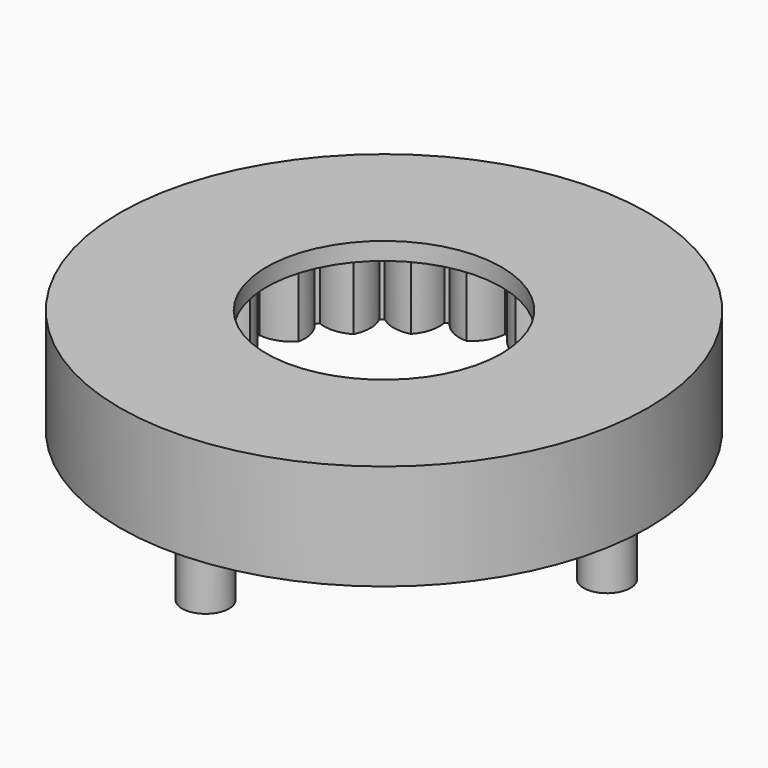
from build123d import *

# Parameters (mm, degrees)
F0_R     = 22.5
F1_DEPTH = 7.5
F2_R     = 2
F3_DEPTH = 5
F4_DEPTH = 5
F5_R     = 22.5
F5_R_2   = 10
F6_DEPTH = 1.5


with BuildPart() as f1:
    # F0 (on Top) → F1 (new body)
    with BuildSketch(Plane.XY):
        Circle(F0_R)
        with BuildLine():
            ThreePointArc((15.973986, 0.912023), (15.993495, 0.456197), (16, 0))
            ThreePointArc((16, 0), (15.925079, -1.546568), (15.701016, -3.078652))
            ThreePointArc((15.701016, -3.078652), (15.665345, -3.255296), (15.627688, -3.431527))
            ThreePointArc((15.627688, -3.431527), (15.076175, -5.358074), (14.288169, -7.200571))
            ThreePointArc((14.288169, -7.200571), (14.206163, -7.361041), (14.122356, -7.520577))
            ThreePointArc((14.122356, -7.520577), (13.071518, -9.226885), (11.815634, -10.788456))
            ThreePointArc((11.815634, -10.788456), (11.693375, -10.92085), (11.569633, -11.051859))
            ThreePointArc((11.569633, -11.051859), (10.097407, -12.411381), (8.466788, -13.576211))
            ThreePointArc((8.466788, -13.576211), (8.313343, -13.67071), (8.158844, -13.763476))
            ThreePointArc((8.158844, -13.763476), (6.374417, -14.675381), (4.489999, -15.35708))
            ThreePointArc((4.489999, -15.35708), (4.316748, -15.406677), (4.14295, -15.454319))
            ThreePointArc((4.14295, -15.454319), (2.178666, -15.850975), (0.180207, -15.998985))
            ThreePointArc((0.180207, -15.998985), (0, -16), (-0.180207, -15.998985))
            ThreePointArc((-0.180207, -15.998985), (-2.178666, -15.850975), (-4.14295, -15.454319))
            ThreePointArc((-4.14295, -15.454319), (-4.316748, -15.406677), (-4.489999, -15.35708))
            ThreePointArc((-4.489999, -15.35708), (-6.374417, -14.675381), (-8.158844, -13.763476))
            ThreePointArc((-8.158844, -13.763476), (-8.313343, -13.67071), (-8.466788, -13.576211))
            ThreePointArc((-8.466788, -13.576211), (-10.097407, -12.411381), (-11.569633, -11.051859))
            ThreePointArc((-11.569633, -11.051859), (-11.693375, -10.92085), (-11.815634, -10.788456))
            ThreePointArc((-11.815634, -10.788456), (-13.071518, -9.226885), (-14.122356, -7.520577))
            ThreePointArc((-14.122356, -7.520577), (-14.206163, -7.361041), (-14.288169, -7.200571))
            ThreePointArc((-14.288169, -7.200571), (-15.076175, -5.358074), (-15.627688, -3.431527))
            ThreePointArc((-15.627688, -3.431527), (-15.665345, -3.255296), (-15.701016, -3.078652))
            ThreePointArc((-15.701016, -3.078652), (-15.9627, -1.091879), (-15.973986, 0.912023))
            ThreePointArc((-15.973986, 0.912023), (-15.9627, 1.091879), (-15.94939, 1.271596))
            ThreePointArc((-15.94939, 1.271596), (-15.665345, 3.255296), (-15.135566, 5.187932))
            ThreePointArc((-15.135566, 5.187932), (-15.076175, 5.358074), (-15.014871, 5.527536))
            ThreePointArc((-15.014871, 5.527536), (-14.206163, 7.361041), (-13.174611, 9.079076))
            ThreePointArc((-13.174611, 9.079076), (-13.071518, 9.226885), (-12.966768, 9.373523))
            ThreePointArc((-12.966768, 9.373523), (-11.693375, 10.92085), (-10.236555, 12.296867))
            ThreePointArc((-10.236555, 12.296867), (-10.097407, 12.411381), (-9.956978, 12.52432))
            ThreePointArc((-9.956978, 12.52432), (-8.313343, 13.67071), (-6.539301, 14.602655))
            ThreePointArc((-6.539301, 14.602655), (-6.374417, 14.675381), (-6.208726, 14.746245))
            ThreePointArc((-6.208726, 14.746245), (-4.316748, 15.406677), (-2.357056, 15.825432))
            ThreePointArc((-2.357056, 15.825432), (-2.178666, 15.850975), (-2, 15.874508))
            ThreePointArc((-2, 15.874508), (0, 16), (2, 15.874508))
            ThreePointArc((2, 15.874508), (2.178666, 15.850975), (2.357056, 15.825432))
            ThreePointArc((2.357056, 15.825432), (4.316748, 15.406677), (6.208726, 14.746245))
            ThreePointArc((6.208726, 14.746245), (6.374417, 14.675381), (6.539301, 14.602655))
            ThreePointArc((6.539301, 14.602655), (8.313343, 13.67071), (9.956978, 12.52432))
            ThreePointArc((9.956978, 12.52432), (10.097407, 12.411381), (10.236555, 12.296867))
            ThreePointArc((10.236555, 12.296867), (11.693375, 10.92085), (12.966768, 9.373523))
            ThreePointArc((12.966768, 9.373523), (13.071518, 9.226885), (13.174611, 9.079076))
            ThreePointArc((13.174611, 9.079076), (14.206163, 7.361041), (15.014871, 5.527536))
            ThreePointArc((15.014871, 5.527536), (15.076175, 5.358074), (15.135566, 5.187932))
            ThreePointArc((15.135566, 5.187932), (15.665345, 3.255296), (15.94939, 1.271596))
            ThreePointArc((15.94939, 1.271596), (15.9627, 1.091879), (15.973986, 0.912023))
        make_face(mode=Mode.SUBTRACT)
        with BuildLine():
            ThreePointArc((0, 14), (1.22661, 14.695473), (2, 15.874508))
            ThreePointArc((2, 15.874508), (0, 16), (-2, 15.874508))
            ThreePointArc((-2, 15.874508), (-1.22661, 14.695473), (0, 14))
        make_face()
        with BuildLine():
            ThreePointArc((-3.777155, 13.480842), (-2.783667, 14.481461), (-2.357056, 15.825432))
            ThreePointArc((-2.357056, 15.825432), (-4.316748, 15.406677), (-6.208726, 14.746245))
            ThreePointArc((-6.208726, 14.746245), (-5.145915, 13.81959), (-3.777155, 13.480842))
        make_face()
        with BuildLine():
            ThreePointArc((-7.274175, 11.961872), (-6.587493, 13.193424), (-6.539301, 14.602655))
            ThreePointArc((-6.539301, 14.602655), (-8.313343, 13.67071), (-9.956978, 12.52432))
            ThreePointArc((-9.956978, 12.52432), (-8.683571, 11.918771), (-7.274175, 11.961872))
        make_face()
        with BuildLine():
            ThreePointArc((-10.231703, 9.555744), (-9.902754, 10.926892), (-10.236555, 12.296867))
            ThreePointArc((-10.236555, 12.296867), (-11.693375, 10.92085), (-12.966768, 9.373523))
            ThreePointArc((-12.966768, 9.373523), (-11.577207, 9.133991), (-10.231703, 9.555744))
        make_face()
        with BuildLine():
            ThreePointArc((-12.430393, 6.440911), (-12.483573, 7.849962), (-13.174611, 9.079076))
            ThreePointArc((-13.174611, 9.079076), (-14.206163, 7.361041), (-15.014871, 5.527536))
            ThreePointArc((-15.014871, 5.527536), (-13.612214, 5.671785), (-12.430393, 6.440911))
        make_face()
        with BuildLine():
            ThreePointArc((-13.707177, 2.848384), (-14.138543, 4.190837), (-15.135566, 5.187932))
            ThreePointArc((-15.135566, 5.187932), (-15.665345, 3.255296), (-15.94939, 1.271596))
            ThreePointArc((-15.94939, 1.271596), (-14.637665, 1.788928), (-13.707177, 2.848384))
        make_face()
        with BuildLine():
            ThreePointArc((-15.973986, 0.912023), (-15.9627, -1.091879), (-15.701016, -3.078652))
            ThreePointArc((-15.701016, -3.078652), (-14.577508, -2.226605), (-13.967363, -0.955394))
            ThreePointArc((-13.967363, -0.955394), (-14.744922, 0.220896), (-15.973986, 0.912023))
        make_face()
        with BuildLine():
            ThreePointArc((-15.627688, -3.431527), (-15.076175, -5.358074), (-14.288169, -7.200571))
            ThreePointArc((-14.288169, -7.200571), (-13.436204, -6.077001), (-13.191653, -4.688315))
            ThreePointArc((-13.191653, -4.688315), (-14.257737, -3.765428), (-15.627688, -3.431527))
        make_face()
        with BuildLine():
            ThreePointArc((-14.122356, -7.520577), (-13.071518, -9.226885), (-11.815634, -10.788456))
            ThreePointArc((-11.815634, -10.788456), (-11.298397, -9.476694), (-11.437579, -8.073525))
            ThreePointArc((-11.437579, -8.073525), (-12.713121, -7.472487), (-14.122356, -7.520577))
        make_face()
        with BuildLine():
            ThreePointArc((-11.569633, -11.051859), (-10.097407, -12.411381), (-8.466788, -13.576211))
            ThreePointArc((-8.466788, -13.576211), (-8.322641, -12.173543), (-8.835231, -10.859958))
            ThreePointArc((-8.835231, -10.859958), (-10.225631, -10.625346), (-11.569633, -11.051859))
        make_face()
        with BuildLine():
            ThreePointArc((-8.158844, -13.763476), (-6.374417, -14.675381), (-4.489999, -15.35708))
            ThreePointArc((-4.489999, -15.35708), (-4.729632, -13.967537), (-5.577615, -12.840958))
            ThreePointArc((-5.577615, -12.840958), (-6.979753, -12.990171), (-8.158844, -13.763476))
        make_face()
        with BuildLine():
            ThreePointArc((-4.14295, -15.454319), (-2.178666, -15.850975), (-0.180207, -15.998985))
            ThreePointArc((-0.180207, -15.998985), (-0.785848, -14.725622), (-1.906333, -13.869603))
            ThreePointArc((-1.906333, -13.869603), (-3.216219, -14.391575), (-4.14295, -15.454319))
        make_face()
        with BuildLine():
            ThreePointArc((0.180207, -15.998985), (2.178666, -15.850975), (4.14295, -15.454319))
            ThreePointArc((4.14295, -15.454319), (3.216219, -14.391575), (1.906333, -13.869603))
            ThreePointArc((1.906333, -13.869603), (0.785848, -14.725622), (0.180207, -15.998985))
        make_face()
        with BuildLine():
            ThreePointArc((4.489999, -15.35708), (6.374417, -14.675381), (8.158844, -13.763476))
            ThreePointArc((8.158844, -13.763476), (6.979753, -12.990171), (5.577615, -12.840958))
            ThreePointArc((5.577615, -12.840958), (4.729632, -13.967537), (4.489999, -15.35708))
        make_face()
        with BuildLine():
            ThreePointArc((8.466788, -13.576211), (10.097407, -12.411381), (11.569633, -11.051859))
            ThreePointArc((11.569633, -11.051859), (10.225631, -10.625346), (8.835231, -10.859958))
            ThreePointArc((8.835231, -10.859958), (8.322641, -12.173543), (8.466788, -13.576211))
        make_face()
        with BuildLine():
            ThreePointArc((11.815634, -10.788456), (13.071518, -9.226885), (14.122356, -7.520577))
            ThreePointArc((14.122356, -7.520577), (12.713121, -7.472487), (11.437579, -8.073525))
            ThreePointArc((11.437579, -8.073525), (11.298397, -9.476694), (11.815634, -10.788456))
        make_face()
        with BuildLine():
            ThreePointArc((14.288169, -7.200571), (15.076175, -5.358074), (15.627688, -3.431527))
            ThreePointArc((15.627688, -3.431527), (14.257737, -3.765428), (13.191653, -4.688315))
            ThreePointArc((13.191653, -4.688315), (13.436204, -6.077001), (14.288169, -7.200571))
        make_face()
        with BuildLine():
            ThreePointArc((15.701016, -3.078652), (15.925079, -1.546568), (16, 0))
            ThreePointArc((16, 0), (15.993495, 0.456197), (15.973986, 0.912023))
            ThreePointArc((15.973986, 0.912023), (14.744922, 0.220896), (13.967363, -0.955394))
            ThreePointArc((13.967363, -0.955394), (14.577508, -2.226605), (15.701016, -3.078652))
        make_face()
        with BuildLine():
            ThreePointArc((13.707177, 2.848384), (14.637665, 1.788928), (15.94939, 1.271596))
            ThreePointArc((15.94939, 1.271596), (15.665345, 3.255296), (15.135566, 5.187932))
            ThreePointArc((15.135566, 5.187932), (14.138543, 4.190837), (13.707177, 2.848384))
        make_face()
        with BuildLine():
            ThreePointArc((12.430393, 6.440911), (13.612214, 5.671785), (15.014871, 5.527536))
            ThreePointArc((15.014871, 5.527536), (14.206163, 7.361041), (13.174611, 9.079076))
            ThreePointArc((13.174611, 9.079076), (12.483573, 7.849962), (12.430393, 6.440911))
        make_face()
        with BuildLine():
            ThreePointArc((10.231703, 9.555744), (11.577207, 9.133991), (12.966768, 9.373523))
            ThreePointArc((12.966768, 9.373523), (11.693375, 10.92085), (10.236555, 12.296867))
            ThreePointArc((10.236555, 12.296867), (9.902754, 10.926892), (10.231703, 9.555744))
        make_face()
        with BuildLine():
            ThreePointArc((7.274175, 11.961872), (8.683571, 11.918771), (9.956978, 12.52432))
            ThreePointArc((9.956978, 12.52432), (8.313343, 13.67071), (6.539301, 14.602655))
            ThreePointArc((6.539301, 14.602655), (6.587493, 13.193424), (7.274175, 11.961872))
        make_face()
        with BuildLine():
            ThreePointArc((3.777155, 13.480842), (5.145915, 13.81959), (6.208726, 14.746245))
            ThreePointArc((6.208726, 14.746245), (4.316748, 15.406677), (2.357056, 15.825432))
            ThreePointArc((2.357056, 15.825432), (2.783667, 14.481461), (3.777155, 13.480842))
        make_face()
    extrude(amount=F1_DEPTH)

    # F2 (on face) → F3 (join)
    with BuildSketch(Plane(origin=(0, 0, 0), x_dir=(1, 0, 0), z_dir=(0, 0, -1))):
        with Locations((0, 19)):
            Circle(F2_R)
        with Locations((-19, 0)):
            Circle(F2_R)
        with Locations((19, 0)):
            Circle(F2_R)
        with Locations((0, -19)):
            Circle(F2_R)
    extrude(amount=F3_DEPTH)

    # F2 (on face) → F4 (cut)
    with BuildSketch(Plane(origin=(0, 0, 0), x_dir=(1, 0, 0), z_dir=(0, 0, -1))):
        with Locations((-13.435029, 13.435029)):
            Circle(F2_R)
        with Locations((13.435029, 13.435029)):
            Circle(F2_R)
        with Locations((-13.435029, -13.435029)):
            Circle(F2_R)
        with Locations((13.435029, -13.435029)):
            Circle(F2_R)
    extrude(amount=-F4_DEPTH, mode=Mode.SUBTRACT)

    # F5 (on face) → F6 (join)
    with BuildSketch(Plane.XY.offset(7.5)):
        Circle(F5_R)
        Circle(F5_R_2, mode=Mode.SUBTRACT)
        Circle(F5_R)
        Circle(F5_R_2, mode=Mode.SUBTRACT)
    extrude(amount=F6_DEPTH)


solid = f1.part
